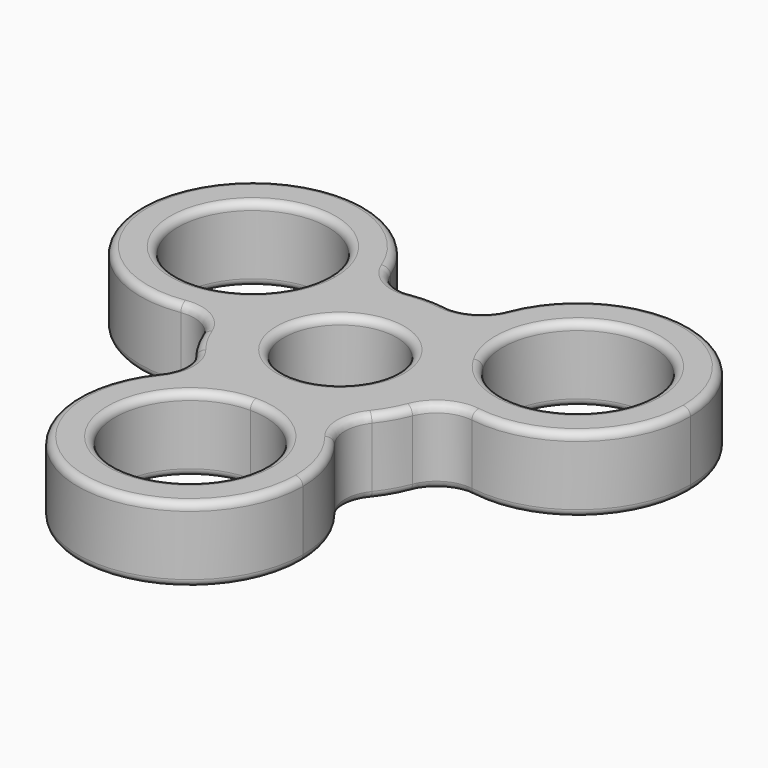
from build123d import *

# Parameters (mm, degrees)
F0_R     = 7.5
F1_DEPTH = 10
F2_R     = 5
F3_R     = 1


with BuildPart() as f1:
    # F0 (on Top) → F1 (new body)
    with BuildSketch(Plane.XY):
        with BuildLine():
            ThreePointArc((-12.990381291, 7.4999995942), (-10.2722796251, 10.9307031477), (-6.6795365594, 13.4307033082))
            ThreePointArc((-6.6795365594, 13.4307033082), (-34.6410161514, 20), (-14.9710985352, -0.9307033082))
            ThreePointArc((-14.9710985352, -0.9307033082), (-14.6024065269, 3.4307030801), (-12.990381291, 7.4999995942))
        make_face()
        with BuildLine():
            ThreePointArc((-11.6506350946, 12.5), (-11.9913768924, 9.9118093227), (-12.990381291, 7.4999995942))
            ThreePointArc((-12.990381291, 7.4999995942), (-31.3098932969, 15.0881906773), (-11.6506350946, 12.5))
        make_face(mode=Mode.SUBTRACT)
        with BuildLine():
            ThreePointArc((-6.6506350946, 12.5), (-6.6578622018, 12.9655759719), (-6.6795365594, 13.4307033082))
            ThreePointArc((-6.6795365594, 13.4307033082), (-10.2722796251, 10.9307031477), (-12.990381291, 7.4999995942))
            ThreePointArc((-12.990381291, 7.4999995942), (-14.6024065269, 3.4307030801), (-14.9710985352, -0.9307033082))
            ThreePointArc((-14.9710985352, -0.9307033082), (-8.8993008823, 4.6004129345), (-6.6506350946, 12.5))
        make_face()
        with BuildLine():
            ThreePointArc((8.2915619759, -12.5), (12.9903810568, -7.5), (14.9710985352, -0.9307033082))
            ThreePointArc((14.9710985352, -0.9307033082), (8.6602540378, 5), (6.6795365594, 13.4307033082))
            ThreePointArc((6.6795365594, 13.4307033082), (0, 15), (-6.6795365594, 13.4307033082))
            ThreePointArc((-6.6795365594, 13.4307033082), (-6.6578622018, 12.9655759719), (-6.6506350946, 12.5))
            ThreePointArc((-6.6506350946, 12.5), (-8.8993008823, 4.6004129345), (-14.9710985352, -0.9307033082))
            ThreePointArc((-14.9710985352, -0.9307033082), (-12.9903810568, -7.5), (-8.2915619759, -12.5))
            ThreePointArc((-8.2915619759, -12.5), (0, -10), (8.2915619759, -12.5))
        make_face()
        Circle(F0_R, mode=Mode.SUBTRACT)
        with BuildLine():
            ThreePointArc((14.9710985352, -0.9307033082), (14.9927728928, -0.4655759719), (15, 0))
            ThreePointArc((15, 0), (14.4888874803, 3.8822853555), (12.9903813891, 7.4999994244))
            ThreePointArc((12.9903813891, 7.4999994244), (10.2722796965, 10.9307030806), (6.6795365594, 13.4307033082))
            ThreePointArc((6.6795365594, 13.4307033082), (8.6602540378, 5), (14.9710985352, -0.9307033082))
        make_face()
        with BuildLine():
            ThreePointArc((12.9903813891, 7.4999994244), (14.4888874803, 3.8822853555), (15, 0))
            ThreePointArc((15, 0), (14.9927728928, -0.4655759719), (14.9710985352, -0.9307033082))
            ThreePointArc((14.9710985352, -0.9307033082), (29.5502221601, -0.2513342124), (36.6506350946, 12.5))
            ThreePointArc((36.6506350946, 12.5), (22.1162110665, 27.4927728928), (6.6795365594, 13.4307033082))
            ThreePointArc((6.6795365594, 13.4307033082), (10.2722796965, 10.9307030806), (12.9903813891, 7.4999994244))
        make_face()
        with BuildLine():
            ThreePointArc((31.6506350946, 12.5), (24.2388258666, 2.8407418231), (12.9903813891, 7.4999994244))
            ThreePointArc((12.9903813891, 7.4999994244), (19.0624443226, 22.1592581769), (31.6506350946, 12.5))
        make_face(mode=Mode.SUBTRACT)
        with BuildLine():
            ThreePointArc((-1.91e-08, -15), (4.3301270098, -14.3614066191), (8.2915619759, -12.5))
            ThreePointArc((8.2915619759, -12.5), (0, -10), (-8.2915619759, -12.5))
            ThreePointArc((-8.2915619759, -12.5), (-4.330127028, -14.3614066136), (-1.91e-08, -15))
        make_face()
        with BuildLine():
            ThreePointArc((15, -25), (13.2169101843, -17.9068141727), (8.2915619759, -12.5))
            ThreePointArc((8.2915619759, -12.5), (4.3301270098, -14.3614066191), (-1.91e-08, -15))
            ThreePointArc((-1.91e-08, -15), (-4.330127028, -14.3614066136), (-8.2915619759, -12.5))
            ThreePointArc((-8.2915619759, -12.5), (-7.0931858273, -38.2169101843), (15, -25))
        make_face()
        with BuildLine():
            ThreePointArc((10, -25), (-7.0710678051, -32.0710678186), (-1.91e-08, -15))
            ThreePointArc((-1.91e-08, -15), (7.0710678051, -17.9289321814), (10, -25))
        make_face(mode=Mode.SUBTRACT)
    extrude(amount=F1_DEPTH)

    # F2
    f2_edges = [f1.edges().sort_by_distance(p)[0] for p in [
        (14.971099, -0.930703, 5),
        (8.291562, -12.5, 5),
        (6.679537, 13.430703, 5),
        (-6.679537, 13.430703, 5),
        (-14.971099, -0.930703, 5),
        (-8.291562, -12.5, 5),
    ]]
    fillet(f2_edges, radius=F2_R)

    # F3
    f3_edges = [f1.edges().sort_by_distance(p)[0] for p in [
        (-16.131565, -2.94069, 0),
        (-5.51907, 15.44069, 10),
        (-7.5, 0, 0),
        (-7.5, 0, 10),
        (5.51907, 15.44069, 10),
        (-10.612495, -12.5, 10),
        (0, -35, 0),
        (0, -35, 10),
        (30.310889, 17.500001, 0),
        (30.310889, 17.500001, 10),
        (-16.131565, -2.94069, 10),
        (-30.310889, 17.5, 0),
        (-30.310889, 17.5, 10),
        (12.990381, -7.5, 10),
        (0, -40, 0),
        (0, -40, 10),
        (34.641016, 20, 0),
        (10.612495, -12.5, 10),
        (34.641016, 20, 10),
        (-34.641016, 20, 0),
        (-34.641016, 20, 10),
        (16.131565, -2.94069, 10),
        (19.386333, -2.328113, 5),
        (-12.990381, -7.5, 10),
        (12.990381, -7.5, 0),
        (-7.676961, 17.953113, 5),
        (-2.264303, 14.828113, 5),
        (-5.51907, 15.44069, 0),
        (7.676961, 17.953113, 5),
        (2.264303, 14.828113, 5),
        (5.51907, 15.44069, 0),
        (-11.709371, -15.625, 5),
        (-11.709371, -9.375, 5),
        (-13.973674, -5.453113, 5),
        (-19.386333, -2.328113, 5),
        (-10.612495, -12.5, 0),
        (10.612495, -12.5, 0),
        (11.709371, -9.375, 5),
        (11.709371, -15.625, 5),
        (16.131565, -2.94069, 0),
        (13.973674, -5.453113, 5),
        (0, 15, 0),
        (0, 15, 10),
        (-12.990381, -7.5, 0),
    ]]
    fillet(f3_edges, radius=F3_R)


solid = f1.part
